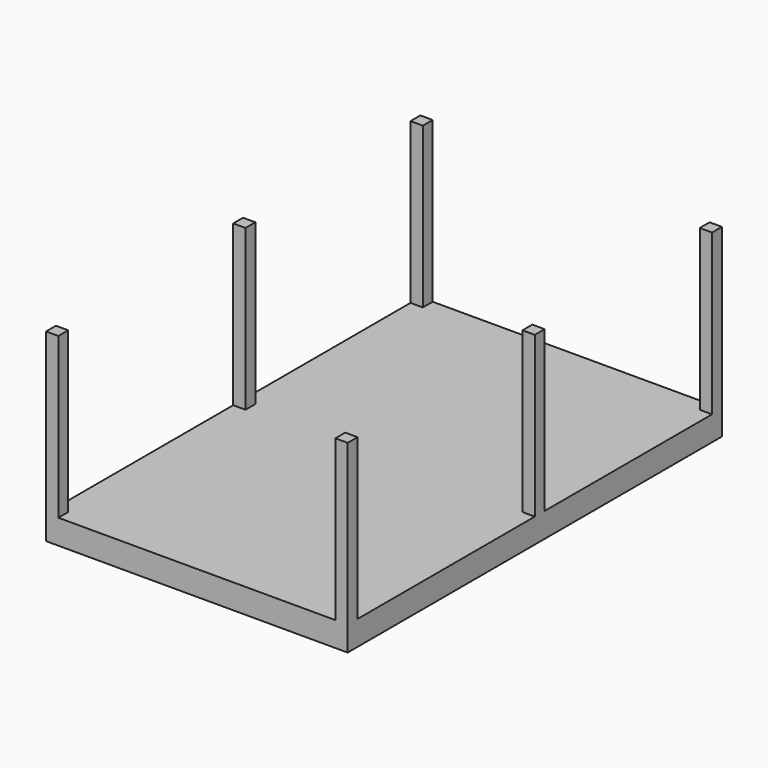
from build123d import *

# Parameters (mm, degrees)
F0_W      = 4978.4
F0_H      = 7721.6
F1_DEPTH  = 406.4
F3_W      = 203.2
F3_H      = 203.2
F4_DEPTH  = 3048
F5_W      = 203.2
F5_H      = 203.2
F6_DEPTH  = 3048
F8_W      = 203.2
F8_H      = 203.2
F9_DEPTH  = 3048
F10_W     = 203.2
F10_H     = 203.2
F11_DEPTH = 3048
F12_W     = 203.2
F12_H     = 203.2
F13_DEPTH = 3048
F14_W     = 203.2
F14_H     = 203.2
F15_DEPTH = 3048
F17_W     = 203.2
F17_H     = 3454.4
F18_DEPTH = 203.2


with BuildPart() as f1:
    # F0 (on Top) → F1 (new body)
    with BuildSketch(Plane.XY):
        with Locations((-0.3292579204, 1176.1648918583)):
            Rectangle(F0_W, F0_H)
    extrude(amount=-F1_DEPTH)

    # F3 (on face) → F4 (join)
    with BuildSketch(Plane(origin=(0, 0, -406.4), x_dir=(1, 0, 0), z_dir=(0, 0, -1))):
        with Locations((-2387.9292579204, 2583.0351081417)):
            Rectangle(F3_W, F3_H)
    extrude(amount=-F4_DEPTH)

    # F5 (on face) → F6 (join)
    with BuildSketch(Plane(origin=(0, 0, -406.4), x_dir=(1, 0, 0), z_dir=(0, 0, -1))):
        with Locations((2387.2707420796, 2583.0351081417)):
            Rectangle(F5_W, F5_H)
    extrude(amount=-F6_DEPTH)

    # F8 (on face) → F9 (join)
    with BuildSketch(Plane(origin=(0, 0, -406.4), x_dir=(1, 0, 0), z_dir=(0, 0, -1))):
        with Locations((2387.2707420796, -4935.3648918583)):
            Rectangle(F8_W, F8_H)
    extrude(amount=-F9_DEPTH)

    # F10 (on face) → F11 (join)
    with BuildSketch(Plane(origin=(0, 0, -406.4), x_dir=(1, 0, 0), z_dir=(0, 0, -1))):
        with Locations((-2387.9292579204, -4935.3648918583)):
            Rectangle(F10_W, F10_H)
    extrude(amount=-F11_DEPTH)

    # F12 (on face) → F13 (join)
    with BuildSketch(Plane(origin=(0, 0, -406.4), x_dir=(1, 0, 0), z_dir=(0, 0, -1))):
        with Locations((-2387.9292579204, -1277.7648918583)):
            Rectangle(F12_W, F12_H)
    extrude(amount=-F13_DEPTH)

    # F14 (on face) → F15 (join)
    with BuildSketch(Plane(origin=(0, 0, -406.4), x_dir=(1, 0, 0), z_dir=(0, 0, -1))):
        with Locations((2387.2707420796, -1277.7648918583)):
            Rectangle(F14_W, F14_H)
    extrude(amount=-F15_DEPTH)

    # F17 (on face) → F18 (join)
    with BuildSketch(Plane.XY):
        with Locations((2387.2707420796, 3106.5648918583)):
            Rectangle(F17_W, F17_H)
    extrude(amount=-F18_DEPTH)


solid = f1.part
